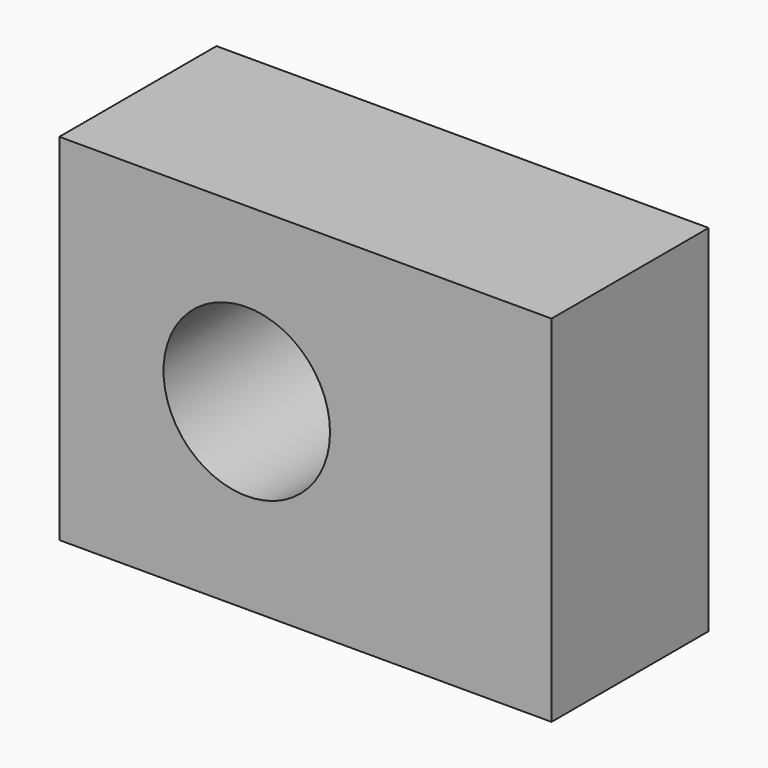
from build123d import *

# Parameters (mm, degrees)
F0_W     = 62.650863
F0_H     = 45.193966
F1_DEPTH = 25
F2_R     = 10.595561
F3_DEPTH = 25
F4_R     = 6.563376
F5_DEPTH = 25


with BuildPart() as f1:
    # F0 (on Front) → F1 (new body)
    with BuildSketch(Plane.XZ):
        with Locations((9.019395, -0.67888)):
            Rectangle(F0_W, F0_H)
    extrude(amount=F1_DEPTH)

    # F2 (on face) → F3 (cut)
    with BuildSketch(Plane.XZ.offset(25)):
        with Locations((1.551725, 0)):
            Circle(F2_R)
    extrude(amount=-F3_DEPTH, mode=Mode.SUBTRACT)

    # F4 (on face) → F5 (join)
    with BuildSketch(Plane.XZ.offset(25)):
        with Locations((26.767241, 0)):
            Circle(F4_R)
    extrude(amount=-F5_DEPTH)


solid = f1.part
